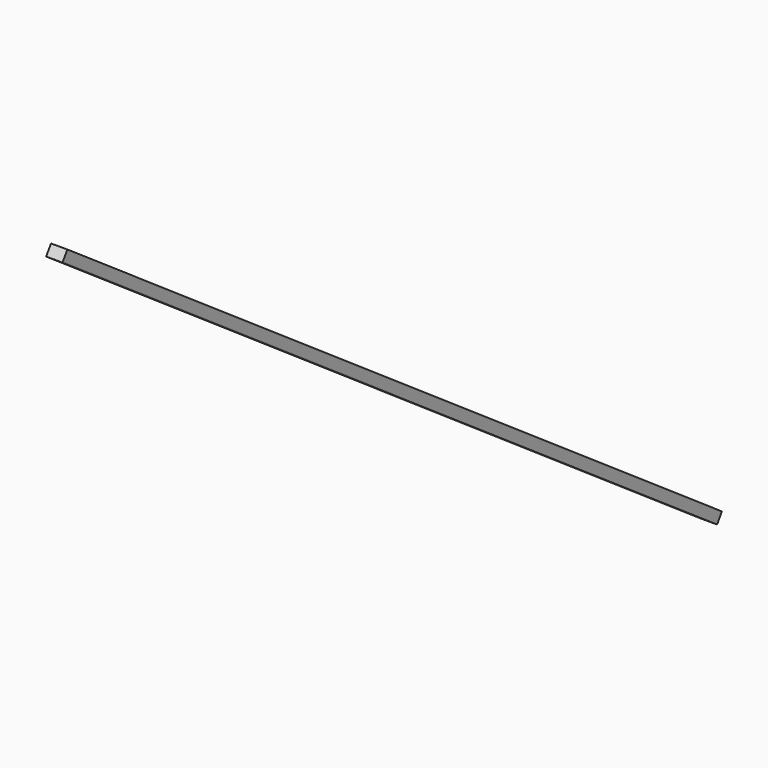
from build123d import *

# Parameters (mm, degrees)
F1_DEPTH  = 6.35
F1_FACE_W = 6.35
F1_FACE_H = 4.238792
F2_DEPTH  = 247.142


with BuildPart() as f1:
    # F0 (on Right) → F1 (new body)
    with BuildSketch(Plane.YZ):
        Polygon((-2.335844, -3.538066), (0, 0), (-114.084415, 78.52827), (-116.487792, 75.036689), align=None)
    extrude(amount=F1_DEPTH)

    # F1_face (on face) → F2 (join)
    with BuildSketch(Plane(origin=(3.175, -115.286103, 76.78248), x_dir=(1, 0, 0), z_dir=(0, -0.823721, 0.566996))):
        Rectangle(F1_FACE_W, F1_FACE_H)
    extrude(amount=F2_DEPTH)


solid = f1.part
